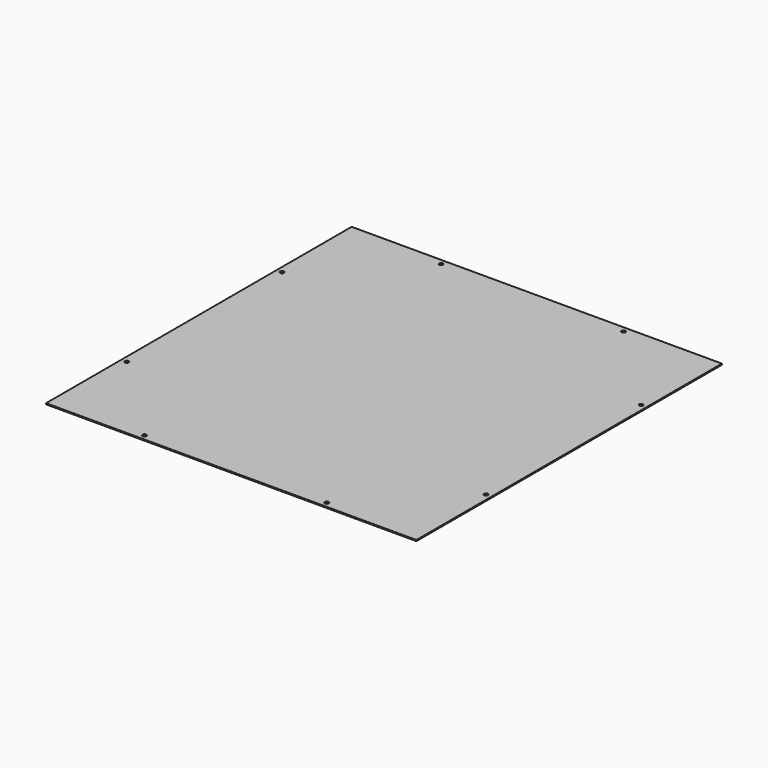
from build123d import *

# Parameters (mm, degrees)
F0_W     = 668
F0_H     = 689
F1_DEPTH = 2
F3_D     = 7


with BuildPart() as f1:
    # F0 (on Top) → F1 (new body)
    with BuildSketch(Plane.XY):
        with Locations((334, 344.5)):
            Rectangle(F0_W, F0_H)
    extrude(amount=F1_DEPTH)

    # F3 (through all)
    with Locations(Plane.XY.offset(2)):
        with Locations((10, 519.5), (169.5, 679), (498.5, 679), (658, 519.5), (658, 169.5), (498.5, 10), (169.5, 10), (10, 169.5)):
            Hole(F3_D / 2)


solid = f1.part
